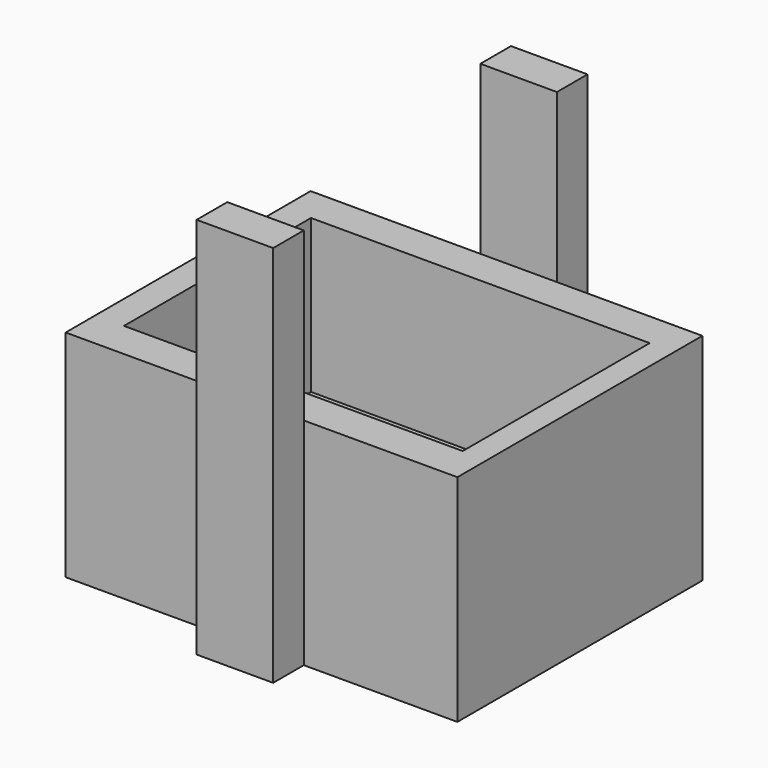
from build123d import *

# Parameters (mm, degrees)
F0_W     = 129.983455
F0_H     = 71.484342
F1_DEPTH = 101.6
F3_DEPTH = 50.8
F4_W     = 25.4
F4_H     = 127
F5_DEPTH = 12.7
F6_W     = 25.4
F6_H     = 127
F7_DEPTH = 12.7


with BuildPart() as f1:
    # F0 (on Front) → F1 (new body)
    with BuildSketch(Plane.XZ):
        with Locations((64.991727, 35.742171)):
            Rectangle(F0_W, F0_H)
    extrude(amount=F1_DEPTH)

    # F2 (on face) → F3 (cut)
    with BuildSketch(Plane.XY.offset(71.484342)):
        Polygon((121.884853, -11.710611), (64.991727, -11.710611), (9.490403, -11.710611), (9.490403, -89.278609), (121.884853, -89.278609), (121.884853, -50.8), align=None)
    extrude(amount=-F3_DEPTH, mode=Mode.SUBTRACT)

    # F4 (on face) → F5 (join)
    with BuildSketch(Plane.XZ.offset(101.6)):
        with Locations((66.31402, 63.5)):
            Rectangle(F4_W, F4_H)
    extrude(amount=F5_DEPTH)

    # F6 (on face) → F7 (join)
    with BuildSketch(Plane(origin=(0, 0, 0), x_dir=(-1, 0, 0), z_dir=(0, 1, 0))):
        with Locations((-69.025247, 63.5)):
            Rectangle(F6_W, F6_H)
    extrude(amount=F7_DEPTH)


solid = f1.part
